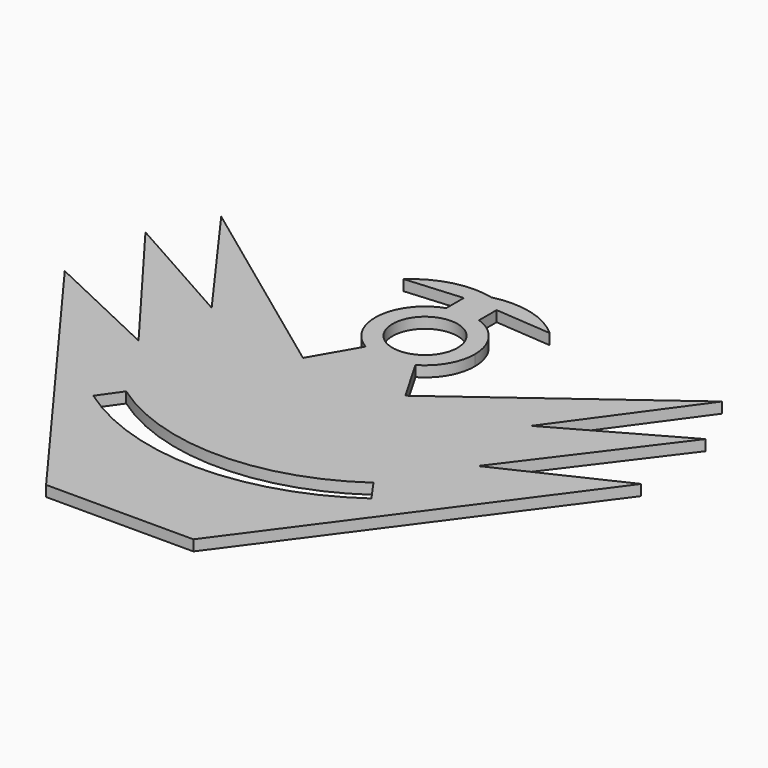
from build123d import *

# Parameters (mm, degrees)
F0_R     = 6.066108
F1_DEPTH = 2


with BuildPart() as f1:
    # F0 (on Top) → F1 (new body)
    with BuildSketch(Plane.XY):
        with BuildLine():
            ThreePointArc((0, 50.695652), (-2.408143, 51.01269), (-4.652174, 51.942198))
            Line((-4.652174, 51.942198), (-9.560921, 43.439999))
            Line((-9.560921, 43.439999), (-46.774745, 70.861787))
            Line((-46.774745, 70.861787), (-29.853506, 47.479715))
            Line((-29.853506, 47.479715), (-52.312609, 60.093727))
            Line((-52.312609, 60.093727), (-31.69946, 32.712083))
            Line((-31.69946, 32.712083), (-53.8509, 43.17249))
            Line((-53.8509, 43.17249), (-13.761341, -11.301118))
            Line((-13.761341, -11.301118), (13.761341, -11.301118))
            Line((13.761341, -11.301118), (53.8509, 43.17249))
            Line((53.8509, 43.17249), (31.69946, 32.712083))
            Line((31.69946, 32.712083), (52.312609, 60.093727))
            Line((52.312609, 60.093727), (29.853506, 47.479715))
            Line((29.853506, 47.479715), (46.774745, 70.861787))
            Line((46.774745, 70.861787), (9.560921, 43.439999))
            Line((9.560921, 43.439999), (4.652174, 51.942198))
            ThreePointArc((4.652174, 51.942198), (2.408143, 51.01269), (0, 50.695652))
        make_face()
        with BuildLine():
            ThreePointArc((25.980762, 15), (0, 6.749193), (-25.980762, 15))
            Line((-25.980762, 15), (-23.095966, 19.083865))
            ThreePointArc((-23.095966, 19.083865), (0, 11.749193), (23.095966, 19.083865))
            Line((23.095966, 19.083865), (25.980762, 15))
        make_face(mode=Mode.SUBTRACT)
        with BuildLine():
            ThreePointArc((-3.063009, 68.78572), (-9.263211, 60.873972), (-4.652174, 51.942198))
            ThreePointArc((-4.652174, 51.942198), (-2.408143, 51.01269), (0, 50.695652))
            ThreePointArc((0, 50.695652), (2.408143, 51.01269), (4.652174, 51.942198))
            ThreePointArc((4.652174, 51.942198), (8.057802, 55.347826), (9.304348, 60))
            ThreePointArc((9.304348, 60), (7.585189, 65.388488), (3.063009, 68.78572))
            ThreePointArc((3.063009, 68.78572), (1.553303, 69.173775), (0, 69.304348))
            ThreePointArc((0, 69.304348), (-1.553303, 69.173775), (-3.063009, 68.78572))
        make_face()
        with Locations((0, 60)):
            Circle(F0_R, mode=Mode.SUBTRACT)
        with BuildLine():
            Line((0, 75.542793), (0, 69.304348))
            ThreePointArc((0, 69.304348), (1.553303, 69.173775), (3.063009, 68.78572))
            Line((3.063009, 68.78572), (3.063009, 72.887782))
            Line((3.063009, 72.887782), (13.634392, 72.054155))
            ThreePointArc((13.634392, 72.054155), (7.255754, 75.51246), (0, 75.542793))
        make_face()
        with BuildLine():
            Line((-3.063009, 72.887782), (-3.063009, 68.78572))
            ThreePointArc((-3.063009, 68.78572), (-1.553303, 69.173775), (0, 69.304348))
            Line((0, 69.304348), (0, 75.542793))
            ThreePointArc((0, 75.542793), (-7.255754, 75.51246), (-13.634392, 72.054155))
            Line((-13.634392, 72.054155), (-3.063009, 72.887782))
        make_face()
    extrude(amount=-F1_DEPTH)


solid = f1.part
